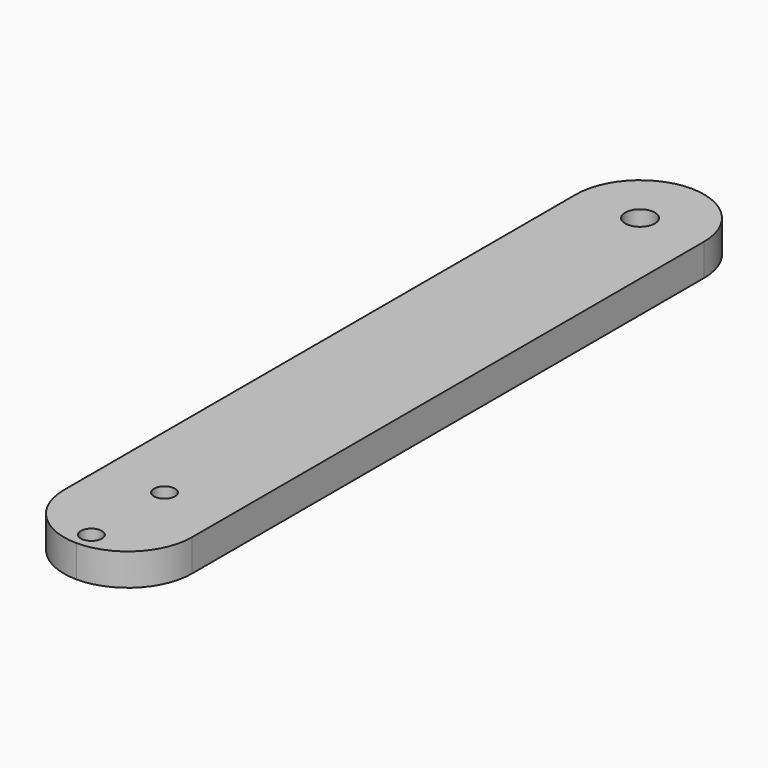
from build123d import *

# Parameters (mm, degrees)
F0_R     = 1.0414
F0_R_2   = 1.4732
F1_DEPTH = 3.175


with BuildPart() as f1:
    # F0 (on Top) → F1 (new body)
    with BuildSketch(Plane.XY):
        with BuildLine():
            Line((6.35, -31.75), (6.35, 31.75))
            ThreePointArc((6.35, 31.75), (4.490128, 36.240128), (0, 38.1))
            ThreePointArc((0, 38.1), (-4.490128, 36.240128), (-6.35, 31.75))
            Line((-6.35, 31.75), (-6.35, -31.75))
            ThreePointArc((-6.35, -31.75), (-4.490128, -36.240128), (0, -38.1))
            ThreePointArc((0, -38.1), (4.490128, -36.240128), (6.35, -31.75))
        make_face()
        with Locations((0, -36.2839)):
            Circle(F0_R, mode=Mode.SUBTRACT)
        with Locations((0, -27.2161)):
            Circle(F0_R, mode=Mode.SUBTRACT)
        with Locations((0, 31.75)):
            Circle(F0_R_2, mode=Mode.SUBTRACT)
    extrude(amount=F1_DEPTH)


solid = f1.part
